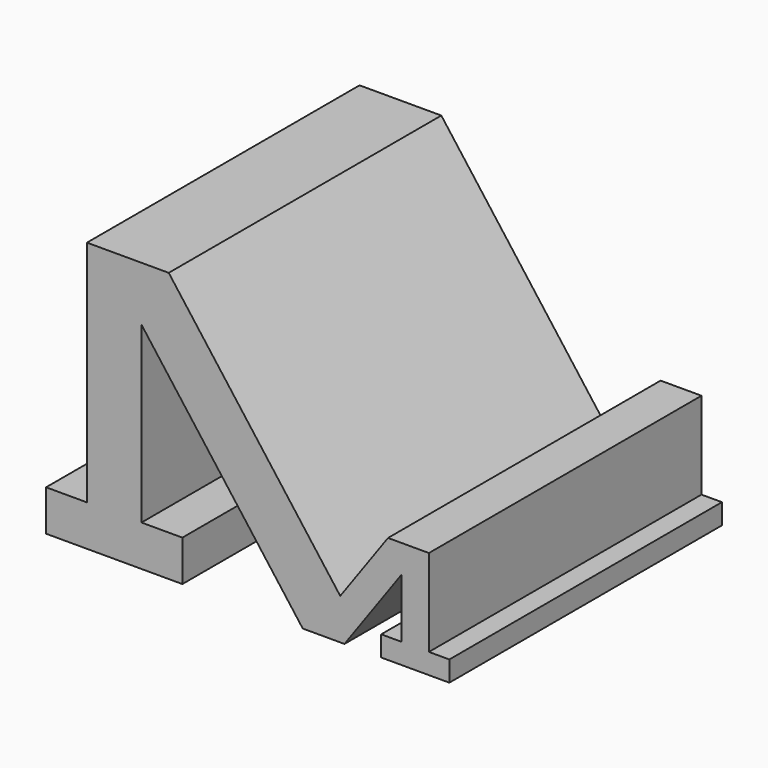
from build123d import *

# Parameters (mm, degrees)
F1_DEPTH = 25


with BuildPart() as f1:
    # F0 (on Front) → F1 (new body, symmetric)
    with BuildSketch(Plane.XZ):
        Polygon((-43.168996, 6), (-43.168996, 0), (-23.168996, 0), (-23.168996, 6), (-29.168996, 6), (-29.168996, 31.558661), (-5.5, 0), (0.619155, 0), (9.011236, 11.700977), (9.011236, 3), (6.011236, 3), (6.011236, 0), (16.011236, 0), (16.011236, 3), (13.011236, 3), (13.011236, 15.775682), (7.011236, 15.775682), (0, 6), (-25.168996, 39.558661), (-37.168996, 39.558661), (-37.168996, 6), align=None)
    extrude(amount=F1_DEPTH, both=True)


solid = f1.part
